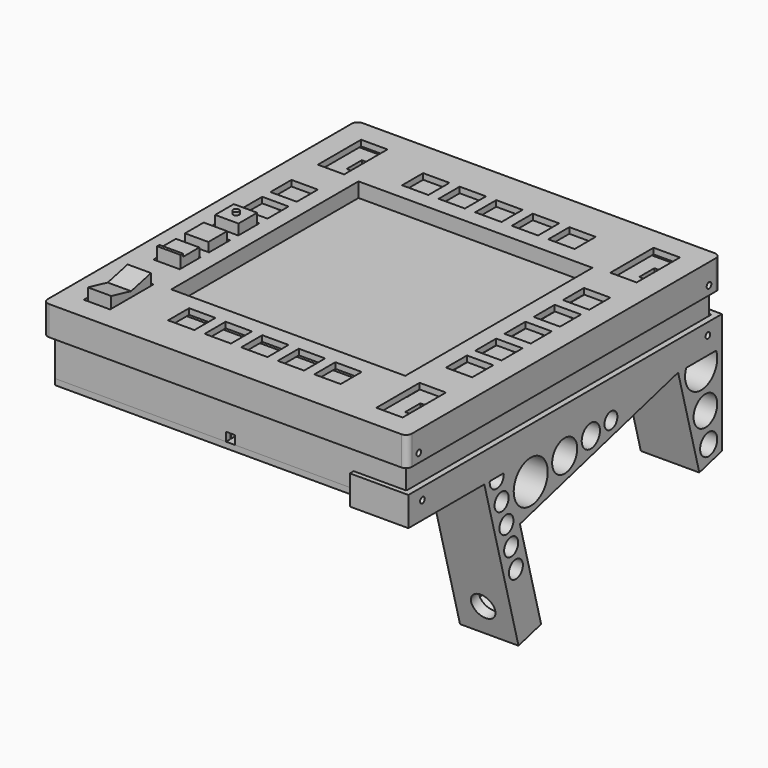
from build123d import *

# Parameters (mm, degrees)
SKETCH_W                = 120
SKETCH_H                = 129.5
SKETCH_W_2              = 6.5
SKETCH_H_2              = 6.5
PAD_DEPTH               = 18
SKETCH001_W             = 116
SKETCH001_H             = 125.5
POCKET_DEPTH            = 16
SKETCH002_W             = 3
SKETCH002_H             = 3
POCKET001_DEPTH         = 2
SKETCH003_W             = 2
SKETCH003_H             = 120
SKETCH003_W_2           = 60
SKETCH003_H_2           = 2
PAD001_DEPTH            = 2
SKETCH004_W             = 120
SKETCH004_H             = 129.5
PAD002_DEPTH            = 2
SKETCH005_W             = 115.5
SKETCH005_H             = 125
SKETCH005_W_2           = 111.5
SKETCH005_H_2           = 121
PAD003_DEPTH            = 2
SKETCH006_W             = 3
SKETCH006_H             = 2
POCKET002_DEPTH         = 2
SKETCH007_W             = 124.5
SKETCH007_H             = 134
PAD004_DEPTH            = 10
SKETCH009_W             = 120.5
SKETCH009_H             = 130
POCKET004_DEPTH         = 8
SKETCH008_W             = 9
SKETCH008_H             = 18.5
SKETCH008_H_2           = 9
SKETCH008_W_2           = 80
SKETCH008_H_3           = 80
POCKET005_DEPTH         = 10.001
SKETCH010_W             = 120.5
SKETCH010_H             = 130
SKETCH010_W_2           = 116.5
SKETCH010_H_2           = 126
SKETCH010_W_3           = 84
SKETCH010_H_3           = 84
SKETCH010_W_4           = 80
SKETCH010_H_4           = 80
PAD005_DEPTH            = 3
SKETCH011_R             = 1
POCKET006_DEPTH         = 124.501
FILLET_R                = 2
SKETCH035_R             = 5.0568676201
SKETCH035_R_2           = 3.6582624879
SKETCH035_R_3           = 3
SKETCH035_R_4           = 7.2752079183
SKETCH035_R_5           = 5.3643607627
SKETCH035_R_6           = 3.8947516868
SKETCH035_R_7           = 2.7644933984
PAD026_DEPTH            = 20
POCKET013_DEPTH         = 18
POCKET014_DEPTH         = 6.5
SKETCH054_R             = 4.125
POCKET015_DEPTH         = 34.8549337038
SKETCH055_R             = 1
POCKET016_DEPTH         = 2.001
SKETCH056_R             = 1
POCKET017_DEPTH         = 64.6289227097
BODY013_PLACEMENT_ANGLE = 75
SKETCH059_W             = 8
SKETCH059_H             = 20
PAD040_DEPTH            = 7
SKETCH060_W             = 6.75
SKETCH060_H             = 16.5
POCKET018_DEPTH         = 2.5
SKETCH061_W             = 10
SKETCH061_H             = 20
SKETCH061_W_2           = 8
SKETCH061_H_2           = 17
POCKET019_DEPTH         = 6
POCKET025_DEPTH         = 10
BODY014_PLACEMENT_ANGLE = 180
SKETCH066_W             = 11
SKETCH066_H             = 8
PAD042_DEPTH            = 6
SKETCH067_W             = 6.75
SKETCH067_H             = 6.75
POCKET021_DEPTH         = 2.5
SKETCH065_W             = 11
SKETCH065_H             = 11
SKETCH065_W_2           = 8
SKETCH065_H_2           = 8
POCKET022_DEPTH         = 5
BODY019_ROLL_ANGLE      = 180
BODY019_PLACEMENT_ANGLE = 90
SKETCH069_W             = 11
SKETCH069_H             = 8
PAD043_DEPTH            = 6
SKETCH070_W             = 6.75
SKETCH070_H             = 6.75
POCKET023_DEPTH         = 2.5
SKETCH068_W             = 11
SKETCH068_H             = 11
SKETCH068_W_2           = 8
SKETCH068_H_2           = 8
POCKET024_DEPTH         = 5
SKETCH071_R             = 1
PAD044_DEPTH            = 1
BODY020_ROLL_ANGLE      = 180
BODY020_PLACEMENT_ANGLE = 90
SKETCH074_W             = 11
SKETCH074_H             = 8
PAD045_DEPTH            = 6
SKETCH075_W             = 6.75
SKETCH075_H             = 6.75
POCKET027_DEPTH         = 2.5
SKETCH073_W             = 11
SKETCH073_H             = 11
SKETCH073_W_2           = 8
SKETCH073_H_2           = 8
POCKET028_DEPTH         = 5
SKETCH076_W             = 1
SKETCH076_H             = 7.9999999999
PAD046_DEPTH            = 1
BODY021_ROLL_ANGLE      = 180
BODY021_PLACEMENT_ANGLE = 90


with BuildPart() as base:
    # Sketch → Pad (new body)
    with BuildSketch(Plane.XY):
        Rectangle(SKETCH_W, SKETCH_H)
        with Locations((-50, 54.75)):
            Rectangle(SKETCH_W_2, SKETCH_H_2, mode=Mode.SUBTRACT)
        with Locations((-50, 45.25)):
            Rectangle(SKETCH_W_2, SKETCH_H_2, mode=Mode.SUBTRACT)
        with Locations((-50, 25)):
            Rectangle(SKETCH_W_2, SKETCH_H_2, mode=Mode.SUBTRACT)
        with Locations((-50, 12.5)):
            Rectangle(SKETCH_W_2, SKETCH_H_2, mode=Mode.SUBTRACT)
        with Locations((-50, 0)):
            Rectangle(SKETCH_W_2, SKETCH_H_2, mode=Mode.SUBTRACT)
        with Locations((-50, -12.5)):
            Rectangle(SKETCH_W_2, SKETCH_H_2, mode=Mode.SUBTRACT)
        with Locations((-50, -25)):
            Rectangle(SKETCH_W_2, SKETCH_H_2, mode=Mode.SUBTRACT)
        with Locations((-50, -45.25)):
            Rectangle(SKETCH_W_2, SKETCH_H_2, mode=Mode.SUBTRACT)
        with Locations((-50, -54.75)):
            Rectangle(SKETCH_W_2, SKETCH_H_2, mode=Mode.SUBTRACT)
        with Locations((-25, -50)):
            Rectangle(SKETCH_W_2, SKETCH_H_2, mode=Mode.SUBTRACT)
        with Locations((-12.5, -50)):
            Rectangle(SKETCH_W_2, SKETCH_H_2, mode=Mode.SUBTRACT)
        with Locations((0, -50)):
            Rectangle(SKETCH_W_2, SKETCH_H_2, mode=Mode.SUBTRACT)
        with Locations((12.5, -50)):
            Rectangle(SKETCH_W_2, SKETCH_H_2, mode=Mode.SUBTRACT)
        with Locations((25, -50)):
            Rectangle(SKETCH_W_2, SKETCH_H_2, mode=Mode.SUBTRACT)
        with Locations((50, -54.75)):
            Rectangle(SKETCH_W_2, SKETCH_H_2, mode=Mode.SUBTRACT)
        with Locations((50, -45.25)):
            Rectangle(SKETCH_W_2, SKETCH_H_2, mode=Mode.SUBTRACT)
        with Locations((50, -25)):
            Rectangle(SKETCH_W_2, SKETCH_H_2, mode=Mode.SUBTRACT)
        with Locations((50, -12.5)):
            Rectangle(SKETCH_W_2, SKETCH_H_2, mode=Mode.SUBTRACT)
        with Locations((50, 0)):
            Rectangle(SKETCH_W_2, SKETCH_H_2, mode=Mode.SUBTRACT)
        with Locations((50, 12.5)):
            Rectangle(SKETCH_W_2, SKETCH_H_2, mode=Mode.SUBTRACT)
        with Locations((50, 25)):
            Rectangle(SKETCH_W_2, SKETCH_H_2, mode=Mode.SUBTRACT)
        with Locations((50, 45.25)):
            Rectangle(SKETCH_W_2, SKETCH_H_2, mode=Mode.SUBTRACT)
        with Locations((50, 54.75)):
            Rectangle(SKETCH_W_2, SKETCH_H_2, mode=Mode.SUBTRACT)
        with Locations((25, 50)):
            Rectangle(SKETCH_W_2, SKETCH_H_2, mode=Mode.SUBTRACT)
        with Locations((12.5, 50)):
            Rectangle(SKETCH_W_2, SKETCH_H_2, mode=Mode.SUBTRACT)
        with Locations((0, 50)):
            Rectangle(SKETCH_W_2, SKETCH_H_2, mode=Mode.SUBTRACT)
        with Locations((-12.5, 50)):
            Rectangle(SKETCH_W_2, SKETCH_H_2, mode=Mode.SUBTRACT)
        with Locations((-25, 50)):
            Rectangle(SKETCH_W_2, SKETCH_H_2, mode=Mode.SUBTRACT)
    extrude(amount=PAD_DEPTH)

    # Sketch001 (on Face117 of Pad) → Pocket (cut)
    with BuildSketch(Plane(origin=(0, 0, 0), x_dir=(1, 0, 0), z_dir=(0, 0, -1))):
        Rectangle(SKETCH001_W, SKETCH001_H)
    extrude(amount=-POCKET_DEPTH, mode=Mode.SUBTRACT)

    # Sketch002 (on Face2 of Pocket) → Pocket001 (cut)
    with BuildSketch(Plane.XZ.offset(64.75)):
        with Locations((0, 1.5)):
            Rectangle(SKETCH002_W, SKETCH002_H)
    extrude(amount=-POCKET001_DEPTH, mode=Mode.SUBTRACT)

    # Sketch003 (on Face126 of Pocket001) → Pad001 (join)
    with BuildSketch(Plane(origin=(0, 0, 16), x_dir=(1, 0, 0), z_dir=(0, 0, -1))):
        with Locations((50, 0)):
            Rectangle(SKETCH003_W, SKETCH003_H)
        with Locations((-50, 0)):
            Rectangle(SKETCH003_W, SKETCH003_H)
        with Locations((0, 50)):
            Rectangle(SKETCH003_W_2, SKETCH003_H_2)
        with Locations((0, -50)):
            Rectangle(SKETCH003_W_2, SKETCH003_H_2)
    extrude(amount=PAD001_DEPTH)


with BuildPart() as cap:
    # Sketch004 → Pad002 (new body)
    with BuildSketch(Plane.XY):
        Rectangle(SKETCH004_W, SKETCH004_H)
    extrude(amount=PAD002_DEPTH)

    # Sketch005 (on Face6 of Pad002) → Pad003 (join)
    with BuildSketch(Plane.XY.offset(2)):
        Rectangle(SKETCH005_W, SKETCH005_H)
        Rectangle(SKETCH005_W_2, SKETCH005_H_2, mode=Mode.SUBTRACT)
    extrude(amount=PAD003_DEPTH)

    # Sketch006 (on Face10 of Pad003) → Pocket002 (cut)
    with BuildSketch(Plane.XZ.offset(62.5)):
        with Locations((0, 3)):
            Rectangle(SKETCH006_W, SKETCH006_H)
    extrude(amount=-POCKET002_DEPTH, mode=Mode.SUBTRACT)


with BuildPart() as cap_1:
    # Body001 placement: moved
    add(cap.part.moved(Location((0, 0, -2))))


with BuildPart() as cover:
    # Sketch007 → Pad004 (new body)
    with BuildSketch(Plane.XY):
        Rectangle(SKETCH007_W, SKETCH007_H)
    extrude(amount=-PAD004_DEPTH)

    # Sketch009 (on Face6 of Pad004) → Pocket004 (cut)
    with BuildSketch(Plane(origin=(0, 0, -10), x_dir=(1, 0, 0), z_dir=(0, 0, -1))):
        Rectangle(SKETCH009_W, SKETCH009_H)
    extrude(amount=-POCKET004_DEPTH, mode=Mode.SUBTRACT)

    # Sketch008 (on Face4 of Pocket004) → Pocket005 (cut, through all)
    with BuildSketch(Plane.XY):
        with Locations((-50, 50)):
            Rectangle(SKETCH008_W, SKETCH008_H)
        with Locations((50, 50)):
            Rectangle(SKETCH008_W, SKETCH008_H)
        with Locations((-50, -50)):
            Rectangle(SKETCH008_W, SKETCH008_H)
        with Locations((50, -50)):
            Rectangle(SKETCH008_W, SKETCH008_H)
        with Locations((-50, 25)):
            Rectangle(SKETCH008_W, SKETCH008_H_2)
        with Locations((-50, 12.5)):
            Rectangle(SKETCH008_W, SKETCH008_H_2)
        with Locations((-50, 0)):
            Rectangle(SKETCH008_W, SKETCH008_H_2)
        with Locations((-50, -12.5)):
            Rectangle(SKETCH008_W, SKETCH008_H_2)
        with Locations((-50, -25)):
            Rectangle(SKETCH008_W, SKETCH008_H_2)
        with Locations((-25, -50)):
            Rectangle(SKETCH008_W, SKETCH008_H_2)
        with Locations((-12.5, -50)):
            Rectangle(SKETCH008_W, SKETCH008_H_2)
        with Locations((0, -50)):
            Rectangle(SKETCH008_W, SKETCH008_H_2)
        with Locations((12.5, -50)):
            Rectangle(SKETCH008_W, SKETCH008_H_2)
        with Locations((25, -50)):
            Rectangle(SKETCH008_W, SKETCH008_H_2)
        with Locations((50, -25)):
            Rectangle(SKETCH008_W, SKETCH008_H_2)
        with Locations((50, -12.5)):
            Rectangle(SKETCH008_W, SKETCH008_H_2)
        with Locations((50, 0)):
            Rectangle(SKETCH008_W, SKETCH008_H_2)
        with Locations((50, 12.5)):
            Rectangle(SKETCH008_W, SKETCH008_H_2)
        with Locations((50, 25)):
            Rectangle(SKETCH008_W, SKETCH008_H_2)
        with Locations((25, 50)):
            Rectangle(SKETCH008_W, SKETCH008_H_2)
        with Locations((12.5, 50)):
            Rectangle(SKETCH008_W, SKETCH008_H_2)
        with Locations((0, 50)):
            Rectangle(SKETCH008_W, SKETCH008_H_2)
        with Locations((-12.5, 50)):
            Rectangle(SKETCH008_W, SKETCH008_H_2)
        with Locations((-25, 50)):
            Rectangle(SKETCH008_W, SKETCH008_H_2)
        Rectangle(SKETCH008_W_2, SKETCH008_H_3)
    extrude(amount=-POCKET005_DEPTH, mode=Mode.SUBTRACT)

    # Sketch010 (on Face111 of Pocket005) → Pad005 (join)
    with BuildSketch(Plane(origin=(0, 0, -2), x_dir=(1, 0, 0), z_dir=(0, 0, -1))):
        Rectangle(SKETCH010_W, SKETCH010_H)
        Rectangle(SKETCH010_W_2, SKETCH010_H_2, mode=Mode.SUBTRACT)
        Rectangle(SKETCH010_W_3, SKETCH010_H_3)
        Rectangle(SKETCH010_W_4, SKETCH010_H_4, mode=Mode.SUBTRACT)
    extrude(amount=PAD005_DEPTH)

    # Sketch011 (on Face1 of Pad005) → Pocket006 (cut, through all)
    with BuildSketch(Plane(origin=(-62.25, 0, 0), x_dir=(0, -1, 0), z_dir=(-1, 0, 0))):
        with Locations((-62, -6.9999999999)):
            Circle(SKETCH011_R)
        with Locations((62, -6.9999999999)):
            Circle(SKETCH011_R)
    extrude(amount=-POCKET006_DEPTH, mode=Mode.SUBTRACT)

    # Fillet
    fillet_edges = [cover.edges().sort_by_distance(p)[0] for p in [
        (62.25, -67, -5),
        (62.25, 67, -5),
        (-62.25, 67, -5),
        (-62.25, -67, -5),
    ]]
    fillet(fillet_edges, radius=FILLET_R)


with BuildPart() as cover_1:
    # Body002 placement: moved
    add(cover.part.moved(Location((0, 0, 23.25))))


with BuildPart() as mount:
    # Sketch035 → Pad026 (new body)
    with BuildSketch(Plane.YZ):
        Polygon((-39.8147028291, 132.0222511738), (0, 121.3539337038), (0, 111.3539337038), (-35, 111.3539337038), (-35, 41.3539337038), (0, 41.3539337038), (0, 31.3539337038), (-56.4359353945, 31.3539337038), (-64.83719661, 0), (-74.4964548729, 2.588190451), align=None)
        with Locations((-16.2817231725, 118.4108013239)):
            Circle(SKETCH035_R, mode=Mode.SUBTRACT)
        with Locations((-5.6582624879, 117.0121961917)):
            Circle(SKETCH035_R_2, mode=Mode.SUBTRACT)
        with Locations((-46.604501005, 36.3539337038)):
            Circle(SKETCH035_R_3, mode=Mode.SUBTRACT)
        with Locations((-38.604501005, 36.3539337038)):
            Circle(SKETCH035_R_3, mode=Mode.SUBTRACT)
        with Locations((-30.8022505025, 36.3539337038)):
            Circle(SKETCH035_R_3, mode=Mode.SUBTRACT)
        with Locations((-23, 36.3539337038)):
            Circle(SKETCH035_R_3, mode=Mode.SUBTRACT)
        with Locations((-44.2752079183, 48.6291416221)):
            Circle(SKETCH035_R_4, mode=Mode.SUBTRACT)
        with Locations((-42.3643607627, 63.1434667636)):
            Circle(SKETCH035_R_5, mode=Mode.SUBTRACT)
        with Locations((-40.8947516868, 74.3062559453)):
            Circle(SKETCH035_R_6, mode=Mode.SUBTRACT)
        with Locations((-39.7644933984, 82.8914199884)):
            Circle(SKETCH035_R_7, mode=Mode.SUBTRACT)
        with BuildLine():
            ThreePointArc((-34.116125398, 114.6525986259), (-23.4536716937, 118.4498436674), (-30.7890049476, 127.0695811899))
            Line((-30.7890049476, 127.0695811899), (-34.116125398, 114.6525986259))
        make_face(mode=Mode.SUBTRACT)
        with BuildLine():
            ThreePointArc((-55.8299179551, 33.615621578), (-51.7067235262, 35.5774765685), (-54.2965871511, 39.3380900433))
            Line((-54.2965871511, 39.3380900433), (-55.8299179551, 33.615621578))
        make_face(mode=Mode.SUBTRACT)
    extrude(amount=PAD026_DEPTH)

    # Sketch036 (on Face25 of Pad026) → Pocket013 (cut)
    with BuildSketch(Plane(origin=(0, 0, 0), x_dir=(0, 1, 0), z_dir=(-1, 0, 0))):
        Polygon((-73.9788167827, -4.5200421036), (-40.3323409193, -130.0903995212), (-32.604934309, -128.0198471604), (-66.2514101723, -2.4494897428), align=None)
    extrude(amount=-POCKET013_DEPTH, mode=Mode.SUBTRACT)

    # Sketch053 (on Face12 of Pocket013) → Pocket014 (cut)
    with BuildSketch(Plane(origin=(0, 0, 41.3539337038), x_dir=(0, -1, 0), z_dir=(0, 0, 1))):
        Polygon((17.5, 10), (13.75, 16.4951905284), (6.25, 16.4951905284), (2.5, 10), (6.25, 3.5048094716), (13.75, 3.5048094716), align=None)
    extrude(amount=-POCKET014_DEPTH, mode=Mode.SUBTRACT)

    # Sketch054 (on Face37 of Pocket014) → Pocket015 (cut, through all)
    with BuildSketch(Plane(origin=(0, 0, 34.8539337038), x_dir=(0, -1, 0), z_dir=(0, 0, 1))):
        with Locations((10, 10)):
            Circle(SKETCH054_R)
    extrude(amount=-POCKET015_DEPTH, mode=Mode.SUBTRACT)

    # Sketch055 (on Face7 of Pocket015) → Pocket016 (cut, through all)
    with BuildSketch(Plane(origin=(18, 0, 0), x_dir=(0, 1, 0), z_dir=(-1, 0, 0))):
        with Locations((-37.5039137946, -125.1914200356)):
            Circle(SKETCH055_R)
        with Locations((-69.0798372971, -7.3484692283)):
            Circle(SKETCH055_R)
    extrude(amount=-POCKET016_DEPTH, mode=Mode.SUBTRACT)

    # Sketch056 (on Face16 of Pocket016) → Pocket017 (cut, through all)
    with BuildSketch(Plane(origin=(0, -62.4257796448, 16.7269372427), x_dir=(0, -0.2588190451, -0.9659258263), z_dir=(0, -0.9659258263, 0.2588190451))):
        with Locations((10.7811013137, 4)):
            Circle(SKETCH056_R)
    extrude(amount=-POCKET017_DEPTH, mode=Mode.SUBTRACT)


with BuildPart() as mount_1:
    # Body013 placement: moved
    add(mount.part.moved(Location((42.18, -49.6135920972, -67.2939275062))).rotate(Axis((42.18, -49.6135920972, -67.2939275062), (-1, 0, 0)), BODY013_PLACEMENT_ANGLE))


with BuildPart() as button_rocker:
    # Sketch059 → Pad040 (new body)
    with BuildSketch(Plane.XY):
        Rectangle(SKETCH059_W, SKETCH059_H)
    extrude(amount=PAD040_DEPTH)

    # Sketch060 (on Face6 of Pad040) → Pocket018 (cut)
    with BuildSketch(Plane.XY.offset(7)):
        Rectangle(SKETCH060_W, SKETCH060_H)
    extrude(amount=-POCKET018_DEPTH, mode=Mode.SUBTRACT)

    # Sketch061 (on Face4 of Pocket018) → Pocket019 (cut)
    with BuildSketch(Plane(origin=(0, 0, 0), x_dir=(1, 0, 0), z_dir=(0, 0, -1))):
        Rectangle(SKETCH061_W, SKETCH061_H)
        Rectangle(SKETCH061_W_2, SKETCH061_H_2, mode=Mode.SUBTRACT)
    extrude(amount=-POCKET019_DEPTH, mode=Mode.SUBTRACT)

    # Sketch072 (on Face14 of Pocket019) → Pocket025 (cut)
    with BuildSketch(Plane(origin=(-4, 0, 0), x_dir=(0, -1, 0), z_dir=(-1, 0, 0))):
        Polygon((-8.5, 0), (0, 2), (8.5, 0), align=None)
    extrude(amount=-POCKET025_DEPTH, mode=Mode.SUBTRACT)


with BuildPart() as button_rocker_1:
    # Body014 placement: moved
    add(button_rocker.part.moved(Location((-50.1, -49.54, 26.61))).rotate(Axis((-50.1, -49.54, 26.61), (0, 1, 0)), BODY014_PLACEMENT_ANGLE))


with BuildPart() as button:
    # Sketch066 → Pad042 (new body)
    with BuildSketch(Plane.XY):
        Rectangle(SKETCH066_W, SKETCH066_H)
    extrude(amount=PAD042_DEPTH)

    # Sketch067 (on Face6 of Pad042) → Pocket021 (cut)
    with BuildSketch(Plane.XY.offset(6)):
        Rectangle(SKETCH067_W, SKETCH067_H)
    extrude(amount=-POCKET021_DEPTH, mode=Mode.SUBTRACT)

    # Sketch065 (on Face4 of Pocket021) → Pocket022 (cut)
    with BuildSketch(Plane(origin=(0, 0, 0), x_dir=(1, 0, 0), z_dir=(0, 0, -1))):
        Rectangle(SKETCH065_W, SKETCH065_H)
        Rectangle(SKETCH065_W_2, SKETCH065_H_2, mode=Mode.SUBTRACT)
    extrude(amount=-POCKET022_DEPTH, mode=Mode.SUBTRACT)


with BuildPart() as button_1:
    # Body019 roll: moved
    add(button.part.rotate(Axis((0, 0, 0), (1, 0, 0)), BODY019_ROLL_ANGLE))


with BuildPart() as button_2:
    # Body019 placement: moved
    add(button_1.part.moved(Location((-50.01, -12.63, 26.07))).rotate(Axis((-50.01, -12.63, 26.07), (0, 0, 1)), BODY019_PLACEMENT_ANGLE))


with BuildPart() as button_center:
    # Sketch069 → Pad043 (new body)
    with BuildSketch(Plane.XY):
        Rectangle(SKETCH069_W, SKETCH069_H)
    extrude(amount=PAD043_DEPTH)

    # Sketch070 (on Face6 of Pad043) → Pocket023 (cut)
    with BuildSketch(Plane.XY.offset(6)):
        Rectangle(SKETCH070_W, SKETCH070_H)
    extrude(amount=-POCKET023_DEPTH, mode=Mode.SUBTRACT)

    # Sketch068 (on Face4 of Pocket023) → Pocket024 (cut)
    with BuildSketch(Plane(origin=(0, 0, 0), x_dir=(1, 0, 0), z_dir=(0, 0, -1))):
        Rectangle(SKETCH068_W, SKETCH068_H)
        Rectangle(SKETCH068_W_2, SKETCH068_H_2, mode=Mode.SUBTRACT)
    extrude(amount=-POCKET024_DEPTH, mode=Mode.SUBTRACT)

    # Sketch071 (on Face4 of Pocket024) → Pad044 (join)
    with BuildSketch(Plane(origin=(0, 0, 0), x_dir=(1, 0, 0), z_dir=(0, 0, -1))):
        Circle(SKETCH071_R)
    extrude(amount=PAD044_DEPTH)


with BuildPart() as button_center_1:
    # Body020 roll: moved
    add(button_center.part.rotate(Axis((0, 0, 0), (1, 0, 0)), BODY020_ROLL_ANGLE))


with BuildPart() as button_center_2:
    # Body020 placement: moved
    add(button_center_1.part.moved(Location((-49.93, 0.13, 26.46))).rotate(Axis((-49.93, 0.13, 26.46), (0, 0, 1)), BODY020_PLACEMENT_ANGLE))


with BuildPart() as button_edge:
    # Sketch074 → Pad045 (new body)
    with BuildSketch(Plane.XY):
        Rectangle(SKETCH074_W, SKETCH074_H)
    extrude(amount=PAD045_DEPTH)

    # Sketch075 (on Face6 of Pad045) → Pocket027 (cut)
    with BuildSketch(Plane.XY.offset(6)):
        Rectangle(SKETCH075_W, SKETCH075_H)
    extrude(amount=-POCKET027_DEPTH, mode=Mode.SUBTRACT)

    # Sketch073 (on Face4 of Pocket027) → Pocket028 (cut)
    with BuildSketch(Plane(origin=(0, 0, 0), x_dir=(1, 0, 0), z_dir=(0, 0, -1))):
        Rectangle(SKETCH073_W, SKETCH073_H)
        Rectangle(SKETCH073_W_2, SKETCH073_H_2, mode=Mode.SUBTRACT)
    extrude(amount=-POCKET028_DEPTH, mode=Mode.SUBTRACT)

    # Sketch076 (on Face4 of Pocket028) → Pad046 (join)
    with BuildSketch(Plane(origin=(0, 0, 0), x_dir=(1, 0, 0), z_dir=(0, 0, -1))):
        with Locations((-3.5, 0)):
            Rectangle(SKETCH076_W, SKETCH076_H)
    extrude(amount=PAD046_DEPTH)


with BuildPart() as button_edge_1:
    # Body021 roll: moved
    add(button_edge.part.rotate(Axis((0, 0, 0), (1, 0, 0)), BODY021_ROLL_ANGLE))


with BuildPart() as button_edge_2:
    # Body021 placement: moved
    add(button_edge_1.part.moved(Location((-50.06, -24.45, 25.96))).rotate(Axis((-50.06, -24.45, 25.96), (0, 0, 1)), BODY021_PLACEMENT_ANGLE))


solid = Compound([base.part, cap_1.part, cover_1.part, mount_1.part, button_rocker_1.part, button_2.part, button_center_2.part, button_edge_2.part])
